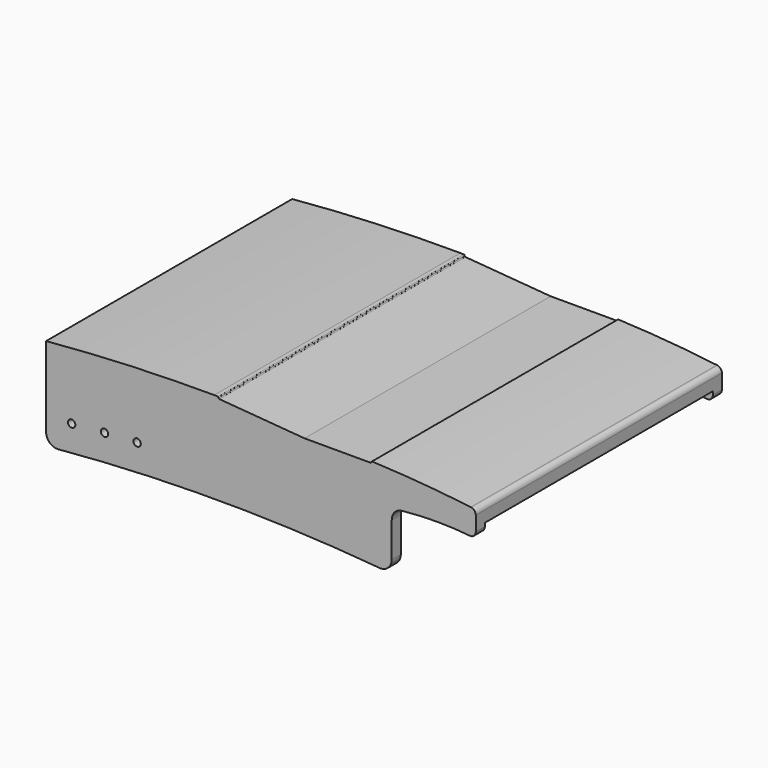
from build123d import *

# Parameters (mm, degrees)
F0_R     = 0.254
F1_DEPTH = 0.7874
F3_R     = 0.254
F4_DEPTH = 0.7874
F6_DEPTH = 20.828


with BuildPart() as f1:
    # F0 (on Front) → F1 (new body)
    with BuildSketch(Plane.XZ):
        with BuildLine():
            ThreePointArc((11.6844989808, 0.4963730507), (5.8365327764, 0.3827565605), (0, 0))
            Line((0, 0), (0, -5.5626))
            ThreePointArc((0, -5.5626), (0.2306241205, -6.1193758795), (0.7874, -6.35))
            ThreePointArc((0.7874, -6.35), (12.0142, -5.8528021894), (23.241, -6.35))
            ThreePointArc((23.241, -6.35), (23.7977758795, -6.1193758795), (24.0284, -5.5626))
            Line((24.0284, -5.5626), (24.0284, -3.1242))
            ThreePointArc((24.0284, -3.1242), (24.2032416576, -2.6294565946), (24.6501196779, -2.3544280917))
            ThreePointArc((24.6501196779, -2.3544280917), (24.7324922592, -2.3412194253), (24.8158, -2.3368))
            ThreePointArc((24.8158, -2.3368), (27.1526, -2.2171018645), (29.4894, -2.3368))
            ThreePointArc((29.4894, -2.3368), (29.7588076836, -2.2252076836), (29.8704, -1.9558))
            Line((29.8704, -1.9558), (29.8704, -0.9410763709))
            ThreePointArc((29.8704, -0.9410763709), (29.7800115236, -0.6946906116), (29.551733636, -0.5652100145))
            ThreePointArc((29.551733636, -0.5652100145), (29.5361211708, -0.563277779), (29.5205083425, -0.5613484801))
            ThreePointArc((29.5205083425, -0.5613484801), (26.1001935921, -0.2102344907), (22.6683376095, 0))
            ThreePointArc((22.6683376095, 0), (22.6321939395, -0.0149711983), (22.6172227412, -0.0511148683))
            Line((22.6172227412, -0.0511148683), (22.6172227412, -0.0581227141))
            ThreePointArc((22.6172227412, -0.0581227141), (22.602251543, -0.0942663841), (22.566107873, -0.1092375824))
            Line((22.566107873, -0.1092375824), (17.9650057107, -0.1092375824))
            Line((17.9650057107, -0.1092375824), (12.0393844661, 0.3669160007))
            ThreePointArc((12.0393844661, 0.3669160007), (12.0059153191, 0.3832006761), (11.9923637391, 0.4178666411))
            Line((11.9923637391, 0.4178666411), (11.9923637391, 0.4310297886))
            ThreePointArc((11.9923637391, 0.4310297886), (11.9792742883, 0.4651882045), (11.9467098063, 0.481852106))
            ThreePointArc((11.9467098063, 0.481852106), (11.8157921856, 0.4925036183), (11.6844989808, 0.4963730507))
        make_face()
        with Locations((1.778, -4.4702755668)):
            Circle(F0_R, mode=Mode.SUBTRACT)
        with Locations((4.0603091472, -4.2884453677)):
            Circle(F0_R, mode=Mode.SUBTRACT)
        with Locations((6.3296015834, -4.1486253579)):
            Circle(F0_R, mode=Mode.SUBTRACT)
    extrude(amount=F1_DEPTH)



with BuildPart() as f4:
    # F3 (on offset) → F4 (new body)
    with BuildSketch(Plane.XZ.offset(20.5994)):
        with BuildLine():
            ThreePointArc((11.6844989808, 0.4963730507), (5.8365327764, 0.3827565605), (0, 0))
            Line((0, 0), (0, -5.5626))
            ThreePointArc((0, -5.5626), (0.2306241205, -6.1193758795), (0.7874, -6.35))
            ThreePointArc((0.7874, -6.35), (12.0142, -5.8528021894), (23.241, -6.35))
            ThreePointArc((23.241, -6.35), (23.7977758795, -6.1193758795), (24.0284, -5.5626))
            Line((24.0284, -5.5626), (24.0284, -3.1242))
            ThreePointArc((24.0284, -3.1242), (24.2032416576, -2.6294565946), (24.6501196779, -2.3544280917))
            ThreePointArc((24.6501196779, -2.3544280917), (24.7324922592, -2.3412194253), (24.8158, -2.3368))
            ThreePointArc((24.8158, -2.3368), (27.1526, -2.2171018645), (29.4894, -2.3368))
            ThreePointArc((29.4894, -2.3368), (29.7588076836, -2.2252076836), (29.8704, -1.9558))
            Line((29.8704, -1.9558), (29.8704, -0.9410763709))
            ThreePointArc((29.8704, -0.9410763709), (29.7800115236, -0.6946906116), (29.551733636, -0.5652100145))
            ThreePointArc((29.551733636, -0.5652100145), (29.5361211708, -0.563277779), (29.5205083425, -0.5613484801))
            ThreePointArc((29.5205083425, -0.5613484801), (26.1001935921, -0.2102344907), (22.6683376095, 0))
            ThreePointArc((22.6683376095, 0), (22.6321939395, -0.0149711983), (22.6172227412, -0.0511148683))
            Line((22.6172227412, -0.0511148683), (22.6172227412, -0.0581227141))
            ThreePointArc((22.6172227412, -0.0581227141), (22.602251543, -0.0942663841), (22.566107873, -0.1092375824))
            Line((22.566107873, -0.1092375824), (17.9650057107, -0.1092375824))
            Line((17.9650057107, -0.1092375824), (12.0393844661, 0.3669160007))
            ThreePointArc((12.0393844661, 0.3669160007), (12.0059153191, 0.3832006761), (11.9923637391, 0.4178666411))
            Line((11.9923637391, 0.4178666411), (11.9923637391, 0.4310297886))
            ThreePointArc((11.9923637391, 0.4310297886), (11.9792742883, 0.4651882045), (11.9467098063, 0.481852106))
            ThreePointArc((11.9467098063, 0.481852106), (11.8157921856, 0.4925036183), (11.6844989808, 0.4963730507))
        make_face()
        with Locations((1.778, -4.4702755668)):
            Circle(F3_R, mode=Mode.SUBTRACT)
        with Locations((4.0603091472, -4.2884453677)):
            Circle(F3_R, mode=Mode.SUBTRACT)
        with Locations((6.3296015834, -4.1486253579)):
            Circle(F3_R, mode=Mode.SUBTRACT)
        with BuildLine():
            ThreePointArc((24.8158, -2.3368), (24.7324922592, -2.3412194253), (24.6501196779, -2.3544280917))
            ThreePointArc((24.6501196779, -2.3544280917), (24.7329437855, -2.345463165), (24.8158, -2.3368))
        make_face()
        with BuildLine():
            ThreePointArc((29.5205083425, -0.5613484801), (29.5361211708, -0.563277779), (29.551733636, -0.5652100145))
            ThreePointArc((29.551733636, -0.5652100145), (29.5361608672, -0.5629567849), (29.5205083425, -0.5613484801))
        make_face()
    extrude(amount=F4_DEPTH)


with BuildPart() as f1_1:
    add(f1.part)

    add(f4.part)  # F6 merges F4
    # F5 (on face) → F6 (join)
    with BuildSketch(Plane.XZ.offset(21.3868)):
        with BuildLine():
            ThreePointArc((29.551733636, -1.3526100145), (29.7800115236, -1.4820906116), (29.8704, -1.7284763709))
            Line((29.8704, -1.7284763709), (29.8704, -0.9410763709))
            ThreePointArc((29.8704, -0.9410763709), (29.7800115236, -0.6946906116), (29.551733636, -0.5652100145))
            ThreePointArc((29.551733636, -0.5652100145), (29.5361211708, -0.563277779), (29.5205083425, -0.5613484801))
            ThreePointArc((29.5205083425, -0.5613484801), (26.1001935921, -0.2102344907), (22.6683376095, 0))
            ThreePointArc((22.6683376095, 0), (22.6321939395, -0.0149711983), (22.6172227412, -0.0511148683))
            Line((22.6172227412, -0.0511148683), (22.6172227412, -0.0581227141))
            ThreePointArc((22.6172227412, -0.0581227141), (22.602251543, -0.0942663841), (22.566107873, -0.1092375824))
            Line((22.566107873, -0.1092375824), (17.9650057107, -0.1092375824))
            Line((17.9650057107, -0.1092375824), (12.0393844661, 0.3669160007))
            ThreePointArc((12.0393844661, 0.3669160007), (12.0059153191, 0.3832006761), (11.9923637391, 0.4178666411))
            Line((11.9923637391, 0.4178666411), (11.9923637391, 0.4310297886))
            ThreePointArc((11.9923637391, 0.4310297886), (11.9792742883, 0.4651882045), (11.9467098063, 0.481852106))
            ThreePointArc((11.9467098063, 0.481852106), (11.8157921856, 0.4925036183), (11.6844989808, 0.4963730507))
            ThreePointArc((11.6844989808, 0.4963730507), (5.8365327764, 0.3827565605), (0, 0))
            Line((0, 0), (0, -0.7874))
            ThreePointArc((0, -0.7874), (5.8365327764, -0.4046434395), (11.6844989808, -0.2910269493))
            ThreePointArc((11.6844989808, -0.2910269493), (11.8157921856, -0.2948963817), (11.9467098063, -0.305547894))
            ThreePointArc((11.9467098063, -0.305547894), (11.9792742883, -0.3222117955), (11.9923637391, -0.3563702114))
            Line((11.9923637391, -0.3563702114), (11.9923637391, -0.3695333589))
            ThreePointArc((11.9923637391, -0.3695333589), (12.0059153191, -0.4041993239), (12.0393844661, -0.4204839993))
            Line((12.0393844661, -0.4204839993), (17.9650057107, -0.8966375824))
            Line((17.9650057107, -0.8966375824), (22.566107873, -0.8966375824))
            ThreePointArc((22.566107873, -0.8966375824), (22.602251543, -0.8816663841), (22.6172227412, -0.8455227141))
            Line((22.6172227412, -0.8455227141), (22.6172227412, -0.8385148683))
            ThreePointArc((22.6172227412, -0.8385148683), (22.6321939395, -0.8023711983), (22.6683376095, -0.7874))
            ThreePointArc((22.6683376095, -0.7874), (26.1001935921, -0.9976344907), (29.5205083425, -1.3487484801))
            ThreePointArc((29.5205083425, -1.3487484801), (29.5361608672, -1.3503567849), (29.551733636, -1.3526100145))
        make_face()
    extrude(amount=-F6_DEPTH)


solid = f1_1.part
